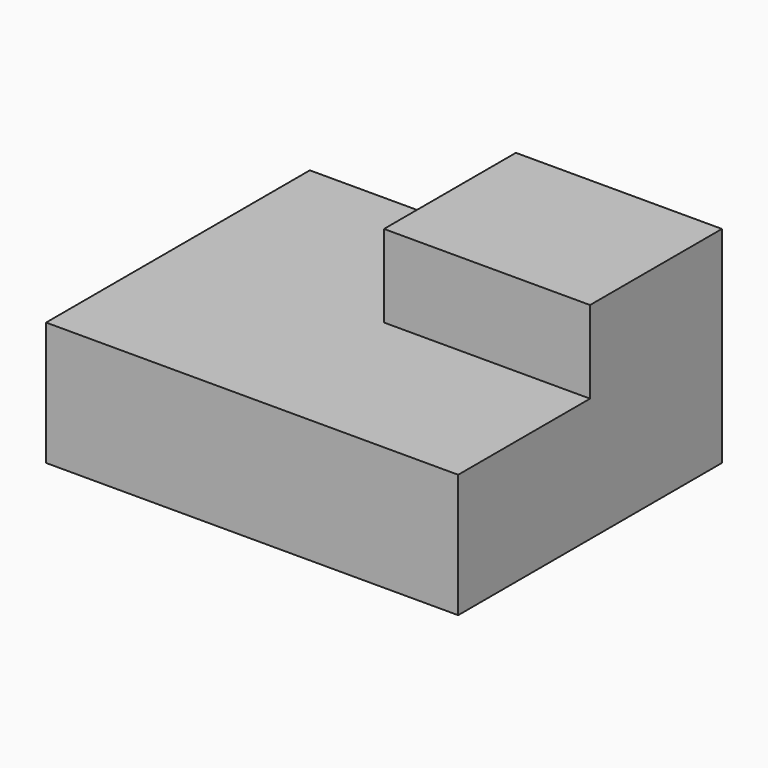
from build123d import *

# Parameters (mm, degrees)
F0_W     = 50
F0_H     = 40
F1_DEPTH = 25
F3_DEPTH = 10


with BuildPart() as f1:
    # F0 (on Top) → F1 (new body)
    with BuildSketch(Plane.XY):
        Rectangle(F0_W, F0_H)
    extrude(amount=F1_DEPTH)

    # F2 (on face) → F3 (cut)
    with BuildSketch(Plane.XY.offset(25)):
        Polygon((25, 0), (0, 0), (0, 20), (-25, 20), (-25, -20), (25, -20), align=None)
    extrude(amount=-F3_DEPTH, mode=Mode.SUBTRACT)


solid = f1.part
